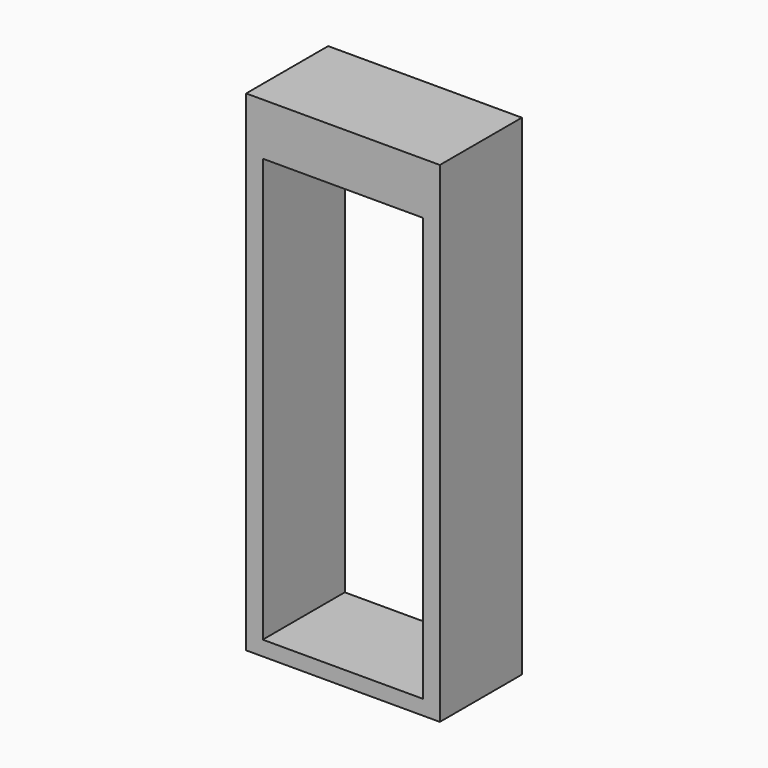
from build123d import *

# Parameters (mm, degrees)
F0_W     = 91.44
F0_H     = 241.3
F1_DEPTH = 29.21


with BuildPart() as f1:
    # F0 (on Front) → F1 (new body, symmetric)
    with BuildSketch(Plane.XZ):
        Polygon((-72.200081, 139.103788), (-72.200081, -140.296212), (38.195824, -140.296212), (38.195824, 109.457096), (38.195824, 139.103788), align=None)
        with Locations((-17.002128, -11.192904)):
            Rectangle(F0_W, F0_H, mode=Mode.SUBTRACT)
    extrude(amount=F1_DEPTH, both=True)


solid = f1.part
